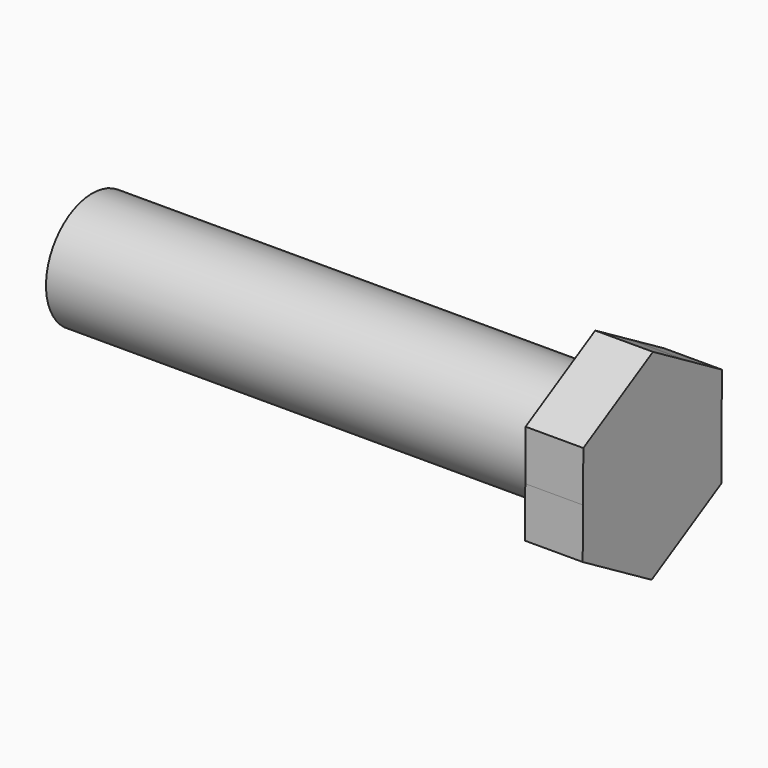
from build123d import *

# Parameters (mm, degrees)
F0_R      = 10
F1_DEPTH  = 87
F1_FACE_R = 10
F2_DEPTH  = 10


with BuildPart() as f1:
    # F0 (on Right) → F1 (new body)
    with BuildSketch(Plane.YZ):
        Circle(F0_R)
    extrude(amount=-F1_DEPTH)

    # F0 (on Right) + F1_face (on face) → F2 (join)
    with BuildSketch(Plane.YZ):
        with BuildLine():
            ThreePointArc((14.9995050606, -0.1218521055), (14.9998762647, -0.0609265554), (15, 0))
            ThreePointArc((15, 0), (13.0207371521, 7.4471742302), (7.6052794647, 12.9290264237))
            ThreePointArc((7.6052794647, 12.9290264237), (0.1218517845, 14.9995050633), (-7.3942259846, 13.0508782114))
            ThreePointArc((-7.3942259846, 13.0508782114), (-12.929026562, 7.6052792295), (-14.9995050623, 0.1218519076))
            ThreePointArc((-14.9995050623, 0.1218519076), (-13.0508782952, -7.3942258367), (-7.6052790755, -12.9290266526))
            ThreePointArc((-7.6052790755, -12.9290266526), (-0.1218515337, -14.9995050653), (7.3942260283, -13.0508781867))
            ThreePointArc((7.3942260283, -13.0508781867), (12.9290265245, -7.6052792932), (14.9995050606, -0.1218521055))
        make_face()
        Circle(F0_R, mode=Mode.SUBTRACT)
        with BuildLine():
            ThreePointArc((7.6052794647, 12.9290264237), (13.0207371521, 7.4471742302), (15, 0))
            ThreePointArc((15, 0), (14.9998762647, -0.0609265554), (14.9995050606, -0.1218521055))
            Line((14.9995050606, -0.1218521055), (15.0698562292, 8.5381164921))
            Line((15.0698562292, 8.5381164921), (7.6052794647, 12.9290264237))
        make_face()
        with BuildLine():
            ThreePointArc((-7.3942259846, 13.0508782114), (0.1218517845, 14.9995050633), (7.6052794647, 12.9290264237))
            Line((7.6052794647, 12.9290264237), (0.140702332, 17.3199365719))
            Line((0.140702332, 17.3199365719), (-7.3942259846, 13.0508782114))
        make_face()
        with BuildLine():
            Line((14.9291538972, -8.7818200798), (14.9995050606, -0.1218521055))
            ThreePointArc((14.9995050606, -0.1218521055), (12.9290265245, -7.6052792932), (7.3942260283, -13.0508781867))
            Line((7.3942260283, -13.0508781867), (14.9291538972, -8.7818200798))
        make_face()
        with BuildLine():
            ThreePointArc((-14.9995050623, 0.1218519076), (-12.929026562, 7.6052792295), (-7.3942259846, 13.0508782114))
            Line((-7.3942259846, 13.0508782114), (-14.9291538972, 8.7818200798))
            Line((-14.9291538972, 8.7818200798), (-14.9995050623, 0.1218519076))
        make_face()
        with BuildLine():
            Line((-0.140702332, -17.3199365719), (7.3942260283, -13.0508781867))
            ThreePointArc((7.3942260283, -13.0508781867), (-0.1218515337, -14.9995050653), (-7.6052790755, -12.9290266526))
            Line((-7.6052790755, -12.9290266526), (-0.140702332, -17.3199365719))
        make_face()
        with BuildLine():
            ThreePointArc((-7.6052790755, -12.9290266526), (-13.0508782952, -7.3942258367), (-14.9995050623, 0.1218519076))
            Line((-14.9995050623, 0.1218519076), (-15.0698562292, -8.5381164921))
            Line((-15.0698562292, -8.5381164921), (-7.6052790755, -12.9290266526))
        make_face()
    with BuildSketch(Plane.YZ):
        Circle(F1_FACE_R)
    extrude(amount=F2_DEPTH)


solid = f1.part
